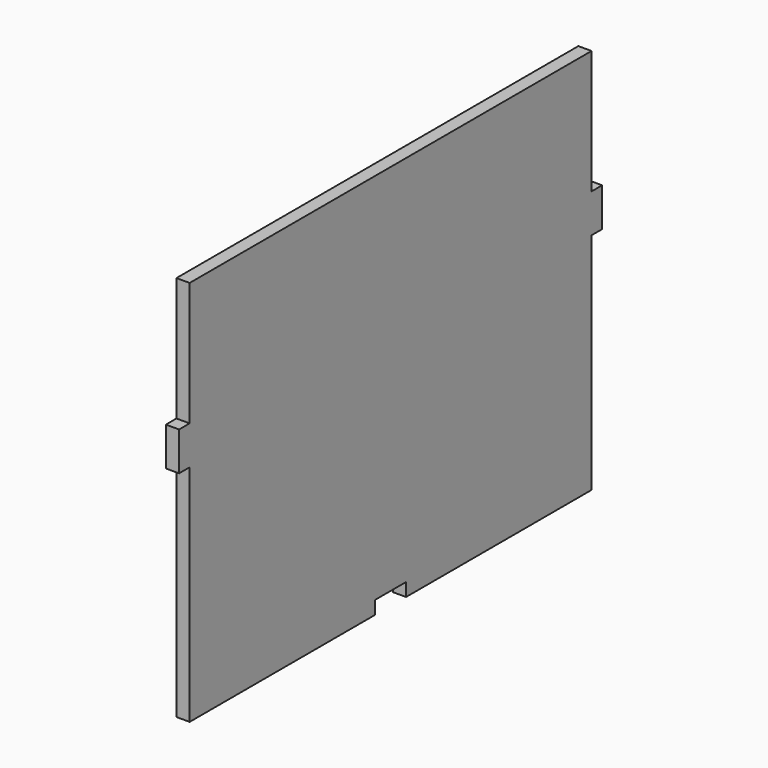
from build123d import *

# Parameters (mm, degrees)
F0_W     = 4.3434
F0_H     = 12.7
F0_W_2   = 12.7
F0_H_2   = 4.3434
F1_DEPTH = 4.3434
F2_W     = 12.7
F2_H     = 4.3434
F3_DEPTH = 4.3444


with BuildPart() as f1:
    # F0 (on Right) → F1 (new body)
    with BuildSketch(Plane.YZ):
        Polygon((111.924825, 79.89284), (-53.175175, 79.89284), (-53.175175, 39.269085), (-53.175175, 26.569085), (-53.175175, -47.10716), (23.024825, -47.10716), (23.024825, -42.76376), (35.724825, -42.76376), (35.724825, -47.10716), (111.924825, -47.10716), (111.924825, 26.569085), (111.924825, 39.269085), align=None)
        with Locations((-55.346875, 32.919085)):
            Rectangle(F0_W, F0_H)
        with Locations((114.096525, 32.919085)):
            Rectangle(F0_W, F0_H)
        with Locations((29.374825, -44.93546)):
            Rectangle(F0_W_2, F0_H_2)
    extrude(amount=-F1_DEPTH)

    # F2 (on Right) → F3 (cut, through all)
    with BuildSketch(Plane.YZ):
        with Locations((29.374825, -44.93546)):
            Rectangle(F2_W, F2_H)
    extrude(amount=-F3_DEPTH, mode=Mode.SUBTRACT)


solid = f1.part
